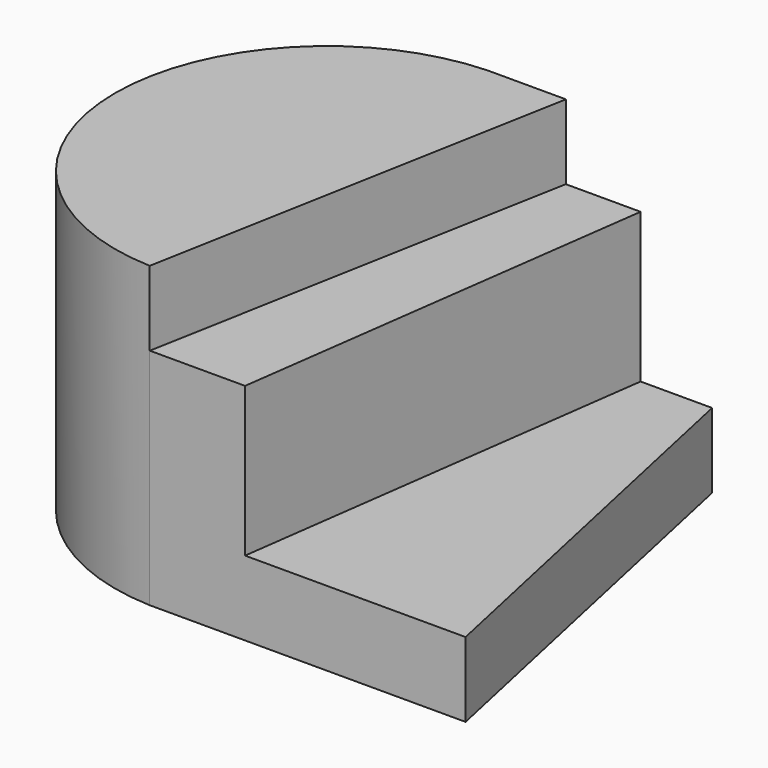
from build123d import *

# Parameters (mm, degrees)
F1_DEPTH = 10
F2_DEPTH = 30
F3_DEPTH = 40


with BuildPart() as f1:
    # F0 (on Top) → F1 (new body)
    with BuildSketch(Plane.XY):
        Polygon((21.850749, -17.87234), (9.574469, 38.723405), (0, 38.723405), (-7.665832, -17.87234), align=None)
    extrude(amount=F1_DEPTH)

    # F0 (on Top) → F2 (join)
    with BuildSketch(Plane.XY):
        Polygon((-7.665832, -17.87234), (0, 38.723405), (-10, 38.723405), (-20.425531, -17.87234), align=None)
    extrude(amount=F2_DEPTH)

    # F0 (on Top) → F3 (join)
    with BuildSketch(Plane.XY):
        with BuildLine():
            Line((-20.425531, -17.87234), (-10, 38.723405))
            Line((-10, 38.723405), (-20.425531, 38.723405))
            ThreePointArc((-20.425531, 38.723405), (-47.679565, 10.425532), (-20.425531, -17.87234))
        make_face()
    extrude(amount=F3_DEPTH)


solid = f1.part
